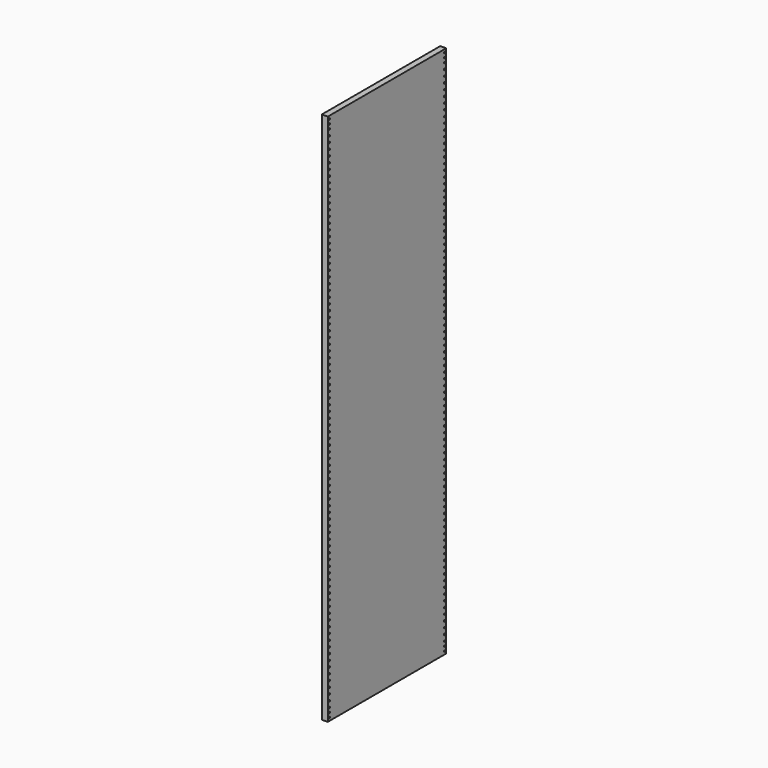
from build123d import *

# Parameters (mm, degrees)
F0_W     = 635
F0_H     = 2286
F0_R     = 3.175
F1_DEPTH = 25.4


with BuildPart() as f1:
    # F0 (on Right) → F1 (new body)
    with BuildSketch(Plane.YZ):
        with Locations((-31.668011, -498.259267)):
            Rectangle(F0_W, F0_H)
        with Locations((-339.643011, -1628.559267)):
            Circle(F0_R, mode=Mode.SUBTRACT)
        with Locations((-339.643011, -1609.509267)):
            Circle(F0_R, mode=Mode.SUBTRACT)
        with Locations((-339.643011, -1590.459267)):
            Circle(F0_R, mode=Mode.SUBTRACT)
        with Locations((-339.643011, -1565.059267)):
            Circle(F0_R, mode=Mode.SUBTRACT)
        with Locations((-339.643011, -1539.659267)):
            Circle(F0_R, mode=Mode.SUBTRACT)
        with Locations((-339.643011, -1514.259267)):
            Circle(F0_R, mode=Mode.SUBTRACT)
        with Locations((-339.643011, -1488.859267)):
            Circle(F0_R, mode=Mode.SUBTRACT)
        with Locations((-339.643011, -1463.459267)):
            Circle(F0_R, mode=Mode.SUBTRACT)
        with Locations((-339.643011, -1438.059267)):
            Circle(F0_R, mode=Mode.SUBTRACT)
        with Locations((-339.643011, -1412.659267)):
            Circle(F0_R, mode=Mode.SUBTRACT)
        with Locations((-339.643011, -1387.259267)):
            Circle(F0_R, mode=Mode.SUBTRACT)
        with Locations((-339.643011, -1361.859267)):
            Circle(F0_R, mode=Mode.SUBTRACT)
        with Locations((-339.643011, -1336.459267)):
            Circle(F0_R, mode=Mode.SUBTRACT)
        with Locations((-339.643011, -1311.059267)):
            Circle(F0_R, mode=Mode.SUBTRACT)
        with Locations((-339.643011, -1285.659267)):
            Circle(F0_R, mode=Mode.SUBTRACT)
        with Locations((-339.643011, -1260.259267)):
            Circle(F0_R, mode=Mode.SUBTRACT)
        with Locations((-339.643011, -1234.859267)):
            Circle(F0_R, mode=Mode.SUBTRACT)
        with Locations((-339.643011, -1209.459267)):
            Circle(F0_R, mode=Mode.SUBTRACT)
        with Locations((-339.643011, -1184.059267)):
            Circle(F0_R, mode=Mode.SUBTRACT)
        with Locations((-339.643011, -1158.659267)):
            Circle(F0_R, mode=Mode.SUBTRACT)
        with Locations((-339.643011, -1133.259267)):
            Circle(F0_R, mode=Mode.SUBTRACT)
        with Locations((-339.643011, -1107.859267)):
            Circle(F0_R, mode=Mode.SUBTRACT)
        with Locations((-339.643011, -1082.459267)):
            Circle(F0_R, mode=Mode.SUBTRACT)
        with Locations((-339.643011, -1057.059267)):
            Circle(F0_R, mode=Mode.SUBTRACT)
        with Locations((-339.643011, -1031.659267)):
            Circle(F0_R, mode=Mode.SUBTRACT)
        with Locations((-339.643011, -1006.259267)):
            Circle(F0_R, mode=Mode.SUBTRACT)
        with Locations((-339.643011, -980.859267)):
            Circle(F0_R, mode=Mode.SUBTRACT)
        with Locations((-339.643011, -955.459267)):
            Circle(F0_R, mode=Mode.SUBTRACT)
        with Locations((-339.643011, -930.059267)):
            Circle(F0_R, mode=Mode.SUBTRACT)
        with Locations((-339.643011, -904.659267)):
            Circle(F0_R, mode=Mode.SUBTRACT)
        with Locations((-339.643011, -879.259267)):
            Circle(F0_R, mode=Mode.SUBTRACT)
        with Locations((-339.643011, -853.859267)):
            Circle(F0_R, mode=Mode.SUBTRACT)
        with Locations((-339.643011, -828.459267)):
            Circle(F0_R, mode=Mode.SUBTRACT)
        with Locations((-339.643011, -803.059267)):
            Circle(F0_R, mode=Mode.SUBTRACT)
        with Locations((-339.643011, -777.659267)):
            Circle(F0_R, mode=Mode.SUBTRACT)
        with Locations((-339.643011, -752.259267)):
            Circle(F0_R, mode=Mode.SUBTRACT)
        with Locations((-339.643011, -726.859267)):
            Circle(F0_R, mode=Mode.SUBTRACT)
        with Locations((-339.643011, -701.459267)):
            Circle(F0_R, mode=Mode.SUBTRACT)
        with Locations((-339.643011, -676.059267)):
            Circle(F0_R, mode=Mode.SUBTRACT)
        with Locations((-339.643011, -650.659267)):
            Circle(F0_R, mode=Mode.SUBTRACT)
        with Locations((-339.643011, -625.259267)):
            Circle(F0_R, mode=Mode.SUBTRACT)
        with Locations((-339.643011, -599.859267)):
            Circle(F0_R, mode=Mode.SUBTRACT)
        with Locations((-339.643011, -574.459267)):
            Circle(F0_R, mode=Mode.SUBTRACT)
        with Locations((-339.643011, -549.059267)):
            Circle(F0_R, mode=Mode.SUBTRACT)
        with Locations((-339.643011, -523.659267)):
            Circle(F0_R, mode=Mode.SUBTRACT)
        with Locations((276.306989, -1628.559267)):
            Circle(F0_R, mode=Mode.SUBTRACT)
        with Locations((276.306989, -1609.509267)):
            Circle(F0_R, mode=Mode.SUBTRACT)
        with Locations((276.306989, -1590.459267)):
            Circle(F0_R, mode=Mode.SUBTRACT)
        with Locations((276.306989, -1565.059267)):
            Circle(F0_R, mode=Mode.SUBTRACT)
        with Locations((276.306989, -1539.659267)):
            Circle(F0_R, mode=Mode.SUBTRACT)
        with Locations((276.306989, -1514.259267)):
            Circle(F0_R, mode=Mode.SUBTRACT)
        with Locations((276.306989, -1488.859267)):
            Circle(F0_R, mode=Mode.SUBTRACT)
        with Locations((276.306989, -1463.459267)):
            Circle(F0_R, mode=Mode.SUBTRACT)
        with Locations((276.306989, -1438.059267)):
            Circle(F0_R, mode=Mode.SUBTRACT)
        with Locations((276.306989, -1412.659267)):
            Circle(F0_R, mode=Mode.SUBTRACT)
        with Locations((276.306989, -1387.259267)):
            Circle(F0_R, mode=Mode.SUBTRACT)
        with Locations((276.306989, -1361.859267)):
            Circle(F0_R, mode=Mode.SUBTRACT)
        with Locations((276.306989, -1336.459267)):
            Circle(F0_R, mode=Mode.SUBTRACT)
        with Locations((276.306989, -1311.059267)):
            Circle(F0_R, mode=Mode.SUBTRACT)
        with Locations((276.306989, -1285.659267)):
            Circle(F0_R, mode=Mode.SUBTRACT)
        with Locations((276.306989, -1260.259267)):
            Circle(F0_R, mode=Mode.SUBTRACT)
        with Locations((276.306989, -1234.859267)):
            Circle(F0_R, mode=Mode.SUBTRACT)
        with Locations((276.306989, -1209.459267)):
            Circle(F0_R, mode=Mode.SUBTRACT)
        with Locations((276.306989, -1184.059267)):
            Circle(F0_R, mode=Mode.SUBTRACT)
        with Locations((276.306989, -1158.659267)):
            Circle(F0_R, mode=Mode.SUBTRACT)
        with Locations((276.306989, -1133.259267)):
            Circle(F0_R, mode=Mode.SUBTRACT)
        with Locations((276.306989, -1107.859267)):
            Circle(F0_R, mode=Mode.SUBTRACT)
        with Locations((276.306989, -1082.459267)):
            Circle(F0_R, mode=Mode.SUBTRACT)
        with Locations((276.306989, -1057.059267)):
            Circle(F0_R, mode=Mode.SUBTRACT)
        with Locations((276.306989, -1031.659267)):
            Circle(F0_R, mode=Mode.SUBTRACT)
        with Locations((276.306989, -1006.259267)):
            Circle(F0_R, mode=Mode.SUBTRACT)
        with Locations((276.306989, -980.859267)):
            Circle(F0_R, mode=Mode.SUBTRACT)
        with Locations((276.306989, -955.459267)):
            Circle(F0_R, mode=Mode.SUBTRACT)
        with Locations((276.306989, -930.059267)):
            Circle(F0_R, mode=Mode.SUBTRACT)
        with Locations((276.306989, -904.659267)):
            Circle(F0_R, mode=Mode.SUBTRACT)
        with Locations((276.306989, -879.259267)):
            Circle(F0_R, mode=Mode.SUBTRACT)
        with Locations((276.306989, -853.859267)):
            Circle(F0_R, mode=Mode.SUBTRACT)
        with Locations((276.306989, -828.459267)):
            Circle(F0_R, mode=Mode.SUBTRACT)
        with Locations((276.306989, -803.059267)):
            Circle(F0_R, mode=Mode.SUBTRACT)
        with Locations((276.306989, -777.659267)):
            Circle(F0_R, mode=Mode.SUBTRACT)
        with Locations((276.306989, -752.259267)):
            Circle(F0_R, mode=Mode.SUBTRACT)
        with Locations((276.306989, -726.859267)):
            Circle(F0_R, mode=Mode.SUBTRACT)
        with Locations((276.306989, -701.459267)):
            Circle(F0_R, mode=Mode.SUBTRACT)
        with Locations((276.306989, -676.059267)):
            Circle(F0_R, mode=Mode.SUBTRACT)
        with Locations((276.306989, -650.659267)):
            Circle(F0_R, mode=Mode.SUBTRACT)
        with Locations((276.306989, -625.259267)):
            Circle(F0_R, mode=Mode.SUBTRACT)
        with Locations((276.306989, -599.859267)):
            Circle(F0_R, mode=Mode.SUBTRACT)
        with Locations((276.306989, -574.459267)):
            Circle(F0_R, mode=Mode.SUBTRACT)
        with Locations((276.306989, -549.059267)):
            Circle(F0_R, mode=Mode.SUBTRACT)
        with Locations((276.306989, -523.659267)):
            Circle(F0_R, mode=Mode.SUBTRACT)
        with Locations((-339.643011, -498.259267)):
            Circle(F0_R, mode=Mode.SUBTRACT)
        with Locations((-339.643011, -472.859267)):
            Circle(F0_R, mode=Mode.SUBTRACT)
        with Locations((-339.643011, -447.459267)):
            Circle(F0_R, mode=Mode.SUBTRACT)
        with Locations((-339.643011, -422.059267)):
            Circle(F0_R, mode=Mode.SUBTRACT)
        with Locations((-339.643011, -396.659267)):
            Circle(F0_R, mode=Mode.SUBTRACT)
        with Locations((-339.643011, -371.259267)):
            Circle(F0_R, mode=Mode.SUBTRACT)
        with Locations((-339.643011, -345.859267)):
            Circle(F0_R, mode=Mode.SUBTRACT)
        with Locations((-339.643011, -320.459267)):
            Circle(F0_R, mode=Mode.SUBTRACT)
        with Locations((-339.643011, -295.059267)):
            Circle(F0_R, mode=Mode.SUBTRACT)
        with Locations((-339.643011, -269.659267)):
            Circle(F0_R, mode=Mode.SUBTRACT)
        with Locations((-339.643011, -244.259267)):
            Circle(F0_R, mode=Mode.SUBTRACT)
        with Locations((-339.643011, -218.859267)):
            Circle(F0_R, mode=Mode.SUBTRACT)
        with Locations((-339.643011, -193.459267)):
            Circle(F0_R, mode=Mode.SUBTRACT)
        with Locations((-339.643011, -168.059267)):
            Circle(F0_R, mode=Mode.SUBTRACT)
        with Locations((-339.643011, -142.659267)):
            Circle(F0_R, mode=Mode.SUBTRACT)
        with Locations((-339.643011, -117.259267)):
            Circle(F0_R, mode=Mode.SUBTRACT)
        with Locations((-339.643011, -91.859267)):
            Circle(F0_R, mode=Mode.SUBTRACT)
        with Locations((-339.643011, -66.459267)):
            Circle(F0_R, mode=Mode.SUBTRACT)
        with Locations((-339.643011, -41.059267)):
            Circle(F0_R, mode=Mode.SUBTRACT)
        with Locations((-339.643011, -15.659267)):
            Circle(F0_R, mode=Mode.SUBTRACT)
        with Locations((-339.643011, 9.740733)):
            Circle(F0_R, mode=Mode.SUBTRACT)
        with Locations((-339.643011, 35.140733)):
            Circle(F0_R, mode=Mode.SUBTRACT)
        with Locations((-339.643011, 60.540733)):
            Circle(F0_R, mode=Mode.SUBTRACT)
        with Locations((-339.643011, 85.940733)):
            Circle(F0_R, mode=Mode.SUBTRACT)
        with Locations((-339.643011, 111.340733)):
            Circle(F0_R, mode=Mode.SUBTRACT)
        with Locations((-339.643011, 136.740733)):
            Circle(F0_R, mode=Mode.SUBTRACT)
        with Locations((-339.643011, 162.140733)):
            Circle(F0_R, mode=Mode.SUBTRACT)
        with Locations((-339.643011, 187.540733)):
            Circle(F0_R, mode=Mode.SUBTRACT)
        with Locations((-339.643011, 212.940733)):
            Circle(F0_R, mode=Mode.SUBTRACT)
        with Locations((-339.643011, 238.340733)):
            Circle(F0_R, mode=Mode.SUBTRACT)
        with Locations((-339.643011, 263.740733)):
            Circle(F0_R, mode=Mode.SUBTRACT)
        with Locations((-339.643011, 289.140733)):
            Circle(F0_R, mode=Mode.SUBTRACT)
        with Locations((-339.643011, 314.540733)):
            Circle(F0_R, mode=Mode.SUBTRACT)
        with Locations((-339.643011, 339.940733)):
            Circle(F0_R, mode=Mode.SUBTRACT)
        with Locations((-339.643011, 365.340733)):
            Circle(F0_R, mode=Mode.SUBTRACT)
        with Locations((-339.643011, 390.740733)):
            Circle(F0_R, mode=Mode.SUBTRACT)
        with Locations((-339.643011, 416.140733)):
            Circle(F0_R, mode=Mode.SUBTRACT)
        with Locations((-339.643011, 441.540733)):
            Circle(F0_R, mode=Mode.SUBTRACT)
        with Locations((-339.643011, 466.940733)):
            Circle(F0_R, mode=Mode.SUBTRACT)
        with Locations((-339.643011, 492.340733)):
            Circle(F0_R, mode=Mode.SUBTRACT)
        with Locations((-339.643011, 517.740733)):
            Circle(F0_R, mode=Mode.SUBTRACT)
        with Locations((-339.643011, 543.140733)):
            Circle(F0_R, mode=Mode.SUBTRACT)
        with Locations((-339.643011, 568.540733)):
            Circle(F0_R, mode=Mode.SUBTRACT)
        with Locations((-339.643011, 593.940733)):
            Circle(F0_R, mode=Mode.SUBTRACT)
        with Locations((-339.643011, 612.990733)):
            Circle(F0_R, mode=Mode.SUBTRACT)
        with Locations((-339.643011, 632.040733)):
            Circle(F0_R, mode=Mode.SUBTRACT)
        with Locations((276.306989, -498.259267)):
            Circle(F0_R, mode=Mode.SUBTRACT)
        with Locations((276.306989, -472.859267)):
            Circle(F0_R, mode=Mode.SUBTRACT)
        with Locations((276.306989, -447.459267)):
            Circle(F0_R, mode=Mode.SUBTRACT)
        with Locations((276.306989, -422.059267)):
            Circle(F0_R, mode=Mode.SUBTRACT)
        with Locations((276.306989, -396.659267)):
            Circle(F0_R, mode=Mode.SUBTRACT)
        with Locations((276.306989, -371.259267)):
            Circle(F0_R, mode=Mode.SUBTRACT)
        with Locations((276.306989, -345.859267)):
            Circle(F0_R, mode=Mode.SUBTRACT)
        with Locations((276.306989, -320.459267)):
            Circle(F0_R, mode=Mode.SUBTRACT)
        with Locations((276.306989, -295.059267)):
            Circle(F0_R, mode=Mode.SUBTRACT)
        with Locations((276.306989, -269.659267)):
            Circle(F0_R, mode=Mode.SUBTRACT)
        with Locations((276.306989, -244.259267)):
            Circle(F0_R, mode=Mode.SUBTRACT)
        with Locations((276.306989, -218.859267)):
            Circle(F0_R, mode=Mode.SUBTRACT)
        with Locations((276.306989, -193.459267)):
            Circle(F0_R, mode=Mode.SUBTRACT)
        with Locations((276.306989, -168.059267)):
            Circle(F0_R, mode=Mode.SUBTRACT)
        with Locations((276.306989, -142.659267)):
            Circle(F0_R, mode=Mode.SUBTRACT)
        with Locations((276.306989, -117.259267)):
            Circle(F0_R, mode=Mode.SUBTRACT)
        with Locations((276.306989, -91.859267)):
            Circle(F0_R, mode=Mode.SUBTRACT)
        with Locations((276.306989, -66.459267)):
            Circle(F0_R, mode=Mode.SUBTRACT)
        with Locations((276.306989, -41.059267)):
            Circle(F0_R, mode=Mode.SUBTRACT)
        with Locations((276.306989, -15.659267)):
            Circle(F0_R, mode=Mode.SUBTRACT)
        with Locations((276.306989, 9.740733)):
            Circle(F0_R, mode=Mode.SUBTRACT)
        with Locations((276.306989, 35.140733)):
            Circle(F0_R, mode=Mode.SUBTRACT)
        with Locations((276.306989, 60.540733)):
            Circle(F0_R, mode=Mode.SUBTRACT)
        with Locations((276.306989, 85.940733)):
            Circle(F0_R, mode=Mode.SUBTRACT)
        with Locations((276.306989, 111.340733)):
            Circle(F0_R, mode=Mode.SUBTRACT)
        with Locations((276.306989, 136.740733)):
            Circle(F0_R, mode=Mode.SUBTRACT)
        with Locations((276.306989, 162.140733)):
            Circle(F0_R, mode=Mode.SUBTRACT)
        with Locations((276.306989, 187.540733)):
            Circle(F0_R, mode=Mode.SUBTRACT)
        with Locations((276.306989, 212.940733)):
            Circle(F0_R, mode=Mode.SUBTRACT)
        with Locations((276.306989, 238.340733)):
            Circle(F0_R, mode=Mode.SUBTRACT)
        with Locations((276.306989, 263.740733)):
            Circle(F0_R, mode=Mode.SUBTRACT)
        with Locations((276.306989, 289.140733)):
            Circle(F0_R, mode=Mode.SUBTRACT)
        with Locations((276.306989, 314.540733)):
            Circle(F0_R, mode=Mode.SUBTRACT)
        with Locations((276.306989, 339.940733)):
            Circle(F0_R, mode=Mode.SUBTRACT)
        with Locations((276.306989, 365.340733)):
            Circle(F0_R, mode=Mode.SUBTRACT)
        with Locations((276.306989, 390.740733)):
            Circle(F0_R, mode=Mode.SUBTRACT)
        with Locations((276.306989, 416.140733)):
            Circle(F0_R, mode=Mode.SUBTRACT)
        with Locations((276.306989, 441.540733)):
            Circle(F0_R, mode=Mode.SUBTRACT)
        with Locations((276.306989, 466.940733)):
            Circle(F0_R, mode=Mode.SUBTRACT)
        with Locations((276.306989, 492.340733)):
            Circle(F0_R, mode=Mode.SUBTRACT)
        with Locations((276.306989, 517.740733)):
            Circle(F0_R, mode=Mode.SUBTRACT)
        with Locations((276.306989, 543.140733)):
            Circle(F0_R, mode=Mode.SUBTRACT)
        with Locations((276.306989, 568.540733)):
            Circle(F0_R, mode=Mode.SUBTRACT)
        with Locations((276.306989, 593.940733)):
            Circle(F0_R, mode=Mode.SUBTRACT)
        with Locations((276.306989, 612.990733)):
            Circle(F0_R, mode=Mode.SUBTRACT)
        with Locations((276.306989, 632.040733)):
            Circle(F0_R, mode=Mode.SUBTRACT)
    extrude(amount=F1_DEPTH)


solid = f1.part
